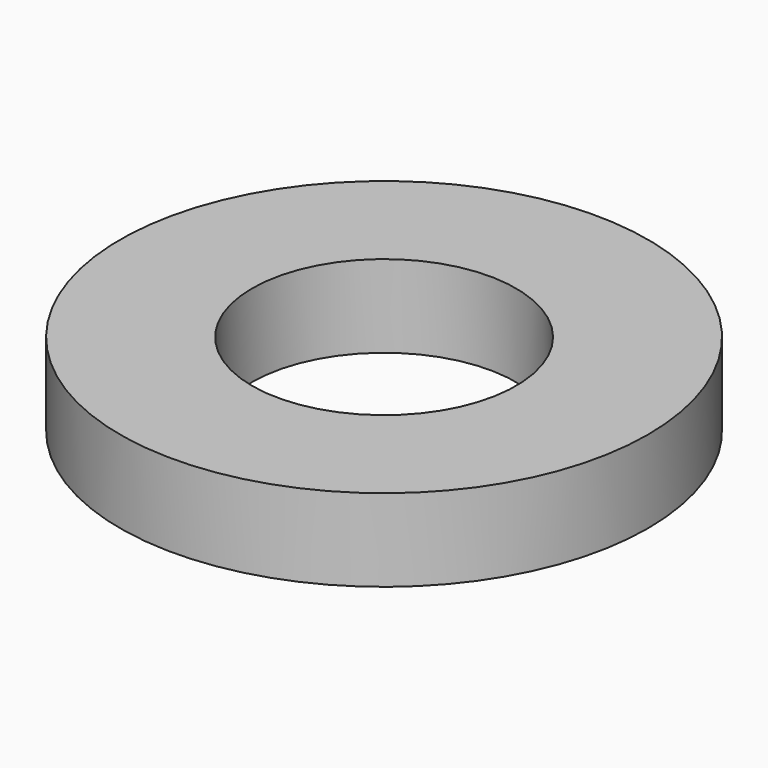
from build123d import *

# Parameters (mm, degrees)
F0_R     = 3.2
F1_DEPTH = 1
F2_D     = 3.2


with BuildPart() as f1:
    # F0 (on Top) → F1 (new body)
    with BuildSketch(Plane.XY):
        Circle(F0_R)
        Circle(F0_R)
    extrude(amount=F1_DEPTH)

    # F2 (through all)
    with Locations(Plane(origin=(0, 0, 0), x_dir=(1, 0, 0), z_dir=(0, 0, -1))):
        with Locations((0, 0)):
            Hole(F2_D / 2)


solid = f1.part
